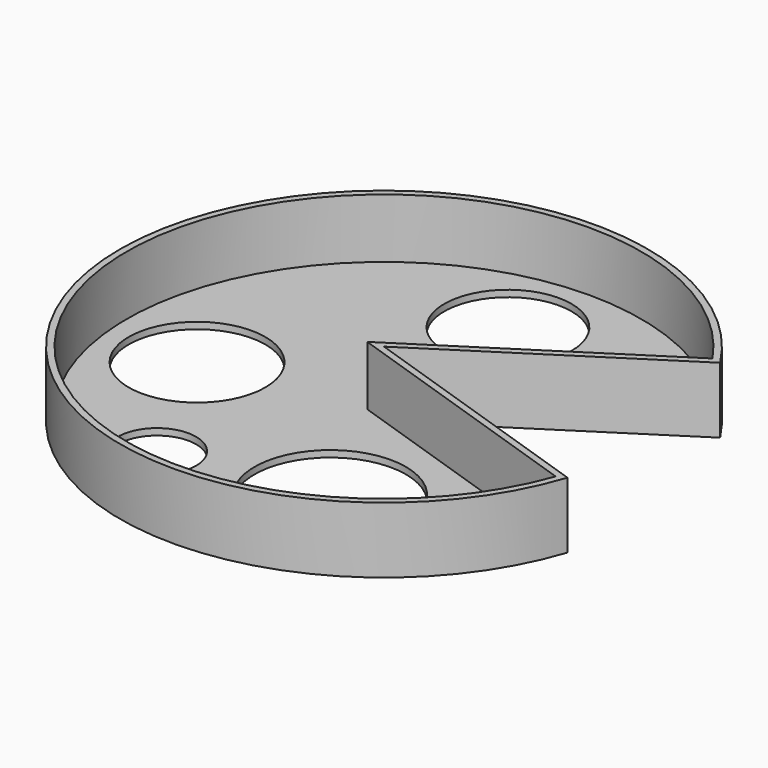
from build123d import *

# Parameters (mm, degrees)
F0_R     = 50.8
F1_DEPTH = 12.7
F3_DEPTH = 25.4
F4_T     = -1.27
F5_R     = 7.5301536969
F5_R_2   = 14.5632315152
F5_R_3   = 12.2458947517
F5_R_4   = 13.1514676022
F6_DEPTH = 25.4


with BuildPart() as f1:
    # F0 (on Top) → F1 (new body)
    with BuildSketch(Plane.XY):
        Circle(F0_R)
    extrude(amount=F1_DEPTH)

    # F2 (on face) → F3 (cut)
    with BuildSketch(Plane.XY.offset(12.7)):
        with BuildLine():
            Line((42.7394116495, 27.4587452709), (0, 0))
            Line((0, 0), (48.1856271225, -16.0868063582))
            ThreePointArc((48.1856271225, -16.0868063582), (50.1421472308, -8.1489306714), (50.8, 0))
            ThreePointArc((50.8, 0), (48.7432154858, 14.3087016917), (42.7394116495, 27.4587452709))
        make_face()
    extrude(amount=-F3_DEPTH, mode=Mode.SUBTRACT)

    # F4
    f4_openings = [f1.faces().sort_by_distance(p)[0] for p in [
        (-5.386062, -0.673631, 12.7),
    ]]
    offset(amount=F4_T, openings=f4_openings, kind=Kind.INTERSECTION)

    # F5 (on face) → F6 (cut)
    with BuildSketch(Plane(origin=(0, 0, 0), x_dir=(1, 0, 0), z_dir=(0, 0, -1))):
        with Locations((-19.0832894295, 30.751734972)):
            Circle(F5_R)
        with Locations((10.1048983634, 25.5627222359)):
            Circle(F5_R_2)
        with Locations((-3.0838376842, -33.6784869432)):
            Circle(F5_R_3)
        with Locations((-32.4882343411, 4.3742610142)):
            Circle(F5_R_4)
    extrude(amount=-F6_DEPTH, mode=Mode.SUBTRACT)


solid = f1.part
